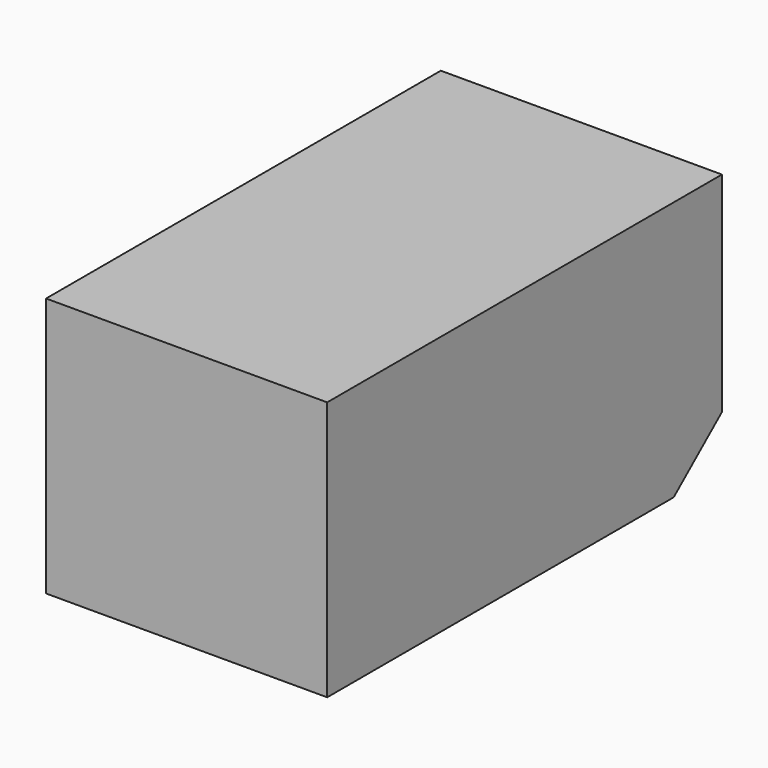
from build123d import *

# Parameters (mm, degrees)
F0_W     = 1082.5
F0_H     = 1900
F1_DEPTH = 1000
F3_DEPTH = 1082.501


with BuildPart() as f1:
    # F0 (on Top) → F1 (new body)
    with BuildSketch(Plane.XY):
        with Locations((-541.25, 950)):
            Rectangle(F0_W, F0_H)
    extrude(amount=F1_DEPTH)

    # F2 (on face) → F3 (cut, through all)
    with BuildSketch(Plane.YZ):
        Polygon((1667.849136, 0), (1900, 0), (1900, 194.797705), align=None)
    extrude(amount=-F3_DEPTH, mode=Mode.SUBTRACT)


solid = f1.part
